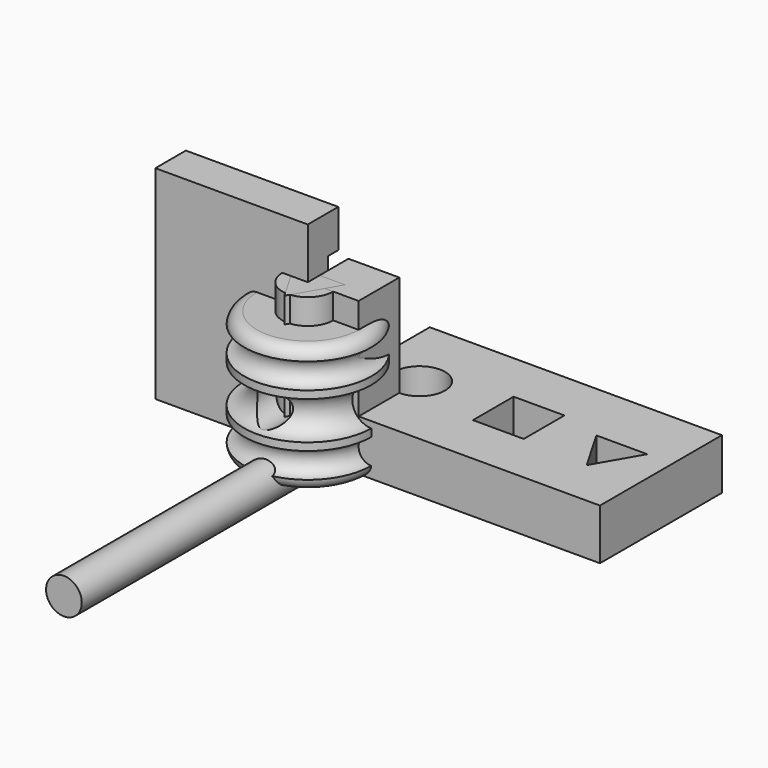
from build123d import *

# Parameters (mm, degrees)
F0_R      = 12.7
F1_DEPTH  = 76.2
F2_W      = 25.4
F2_H      = 25.4
F3_DEPTH  = 76.2
F5_DEPTH  = 76.2
F6_W      = 146.05
F6_H      = 76.2
F6_W_2    = 25.4
F6_H_2    = 25.4
F6_R      = 12.7
F7_DEPTH  = 25.4
F9_DEPTH  = 76.2
F13_D     = 17.85874
F13_DEPTH = 31.751
F14_R     = 8.9281
F15_DEPTH = 152.4


with BuildPart() as f1:
    # F0 (on Top) → F1 (new body)
    with BuildSketch(Plane.XY):
        Circle(F0_R)
    extrude(amount=F1_DEPTH)


with BuildPart() as f3:
    # F2 (on Top) → F3 (new body)
    with BuildSketch(Plane.XY):
        with Locations((12.7, 12.7)):
            Rectangle(F2_W, F2_H)
    extrude(amount=F3_DEPTH)


with BuildPart() as f5:
    # F4 (on Top) → F5 (new body)
    with BuildSketch(Plane.XY):
        Polygon((12.7, 7.3323484187), (-12.7, 7.3323484187), (0, -14.6646968374), align=None)
    extrude(amount=F5_DEPTH)


with BuildPart() as f7:
    # F6 (on Top) → F7 (new body)
    with BuildSketch(Plane.XY):
        with Locations((73.025, 38.1)):
            Rectangle(F6_W, F6_H)
        with Locations((74.93, 38.1)):
            Rectangle(F6_W_2, F6_H_2, mode=Mode.SUBTRACT)
        Polygon((120.65, 23.4353031626), (107.95, 45.4323484187), (133.35, 45.4323484187), align=None, mode=Mode.SUBTRACT)
        with Locations((25.4, 38.1)):
            Circle(F6_R, mode=Mode.SUBTRACT)
    extrude(amount=F7_DEPTH)


with BuildPart() as f9:
    # F8 (on Right) → F9 (new body)
    with BuildSketch(Plane.YZ):
        Polygon((0, 101.6), (0, 0), (19.05, 0), (19.05, 63.5), (12.7, 63.5), (12.7, 82.55), (19.05, 82.55), (19.05, 101.6), align=None)
    extrude(amount=-F9_DEPTH)


with BuildPart() as f11:
    # F10 (on Front) → F11 (revolve)
    with BuildSketch(Plane.XZ):
        with BuildLine():
            Line((0, 63.5), (0, 0))
            Line((0, 0), (25.4, 0))
            ThreePointArc((25.4, 0), (29.6597392124, 1.6407408393), (31.7181782388, 5.7150797347))
            ThreePointArc((31.7181782388, 5.7150797347), (25.4000199337, 12.0809109306), (31.75, 18.415))
            Line((31.75, 18.415), (31.75, 22.225))
            ThreePointArc((31.75, 22.225), (22.225, 31.75), (31.75, 41.275))
            Line((31.75, 41.275), (31.75, 45.085))
            ThreePointArc((31.75, 45.085), (25.4000199337, 51.4190890694), (31.7181782388, 57.7849202653))
            ThreePointArc((31.7181782388, 57.7849202653), (29.6597392124, 61.8592591607), (25.4, 63.5))
            Line((25.4, 63.5), (0, 63.5))
        make_face()
    revolve(axis=Axis((0, 0, 31.75), (0, 0, 1)))

    # F13 (through all, one way)
    with BuildSketch(Plane(origin=(0, 0, 0), x_dir=(1, 0, 0), z_dir=(0, 1, 0))):
        with Locations((0, -31.75)):
            Circle(F13_D / 2)
    extrude(amount=-F13_DEPTH, mode=Mode.SUBTRACT)


with BuildPart() as f15:
    # F14 (on Front) → F15 (new body)
    with BuildSketch(Plane.XZ):
        Circle(F14_R)
    extrude(amount=F15_DEPTH)


solid = Compound([f1.part, f3.part, f5.part, f7.part, f9.part, f11.part, f15.part])
